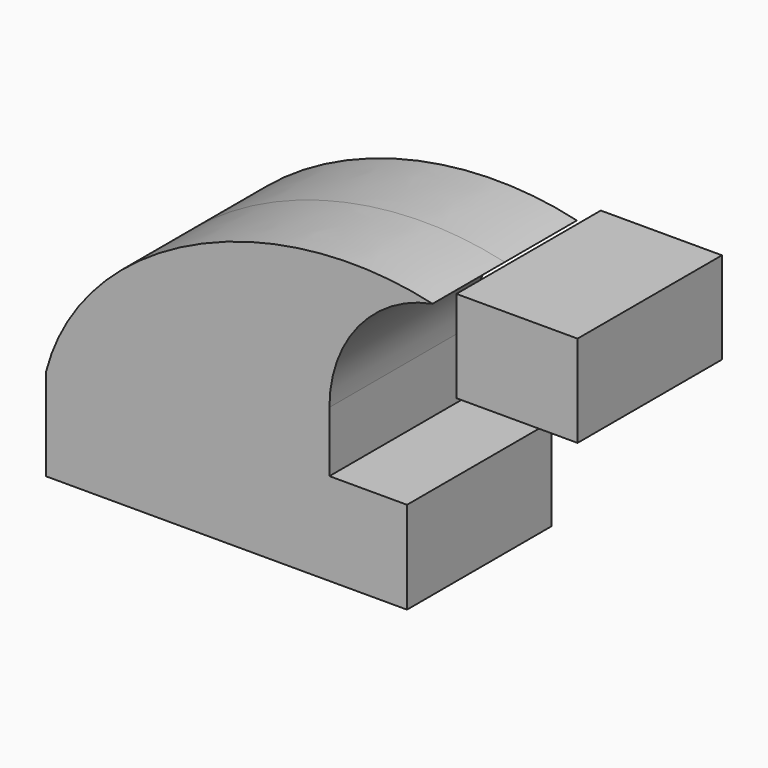
from build123d import *

# Parameters (mm, degrees)
F0_W     = 34.099281
F0_H     = 25.849454
F1_DEPTH = 25.4


with BuildPart() as f1:
    # F0 (on Front) → F1 (new body, symmetric)
    with BuildSketch(Plane.XZ):
        with Locations((81.751195, 56.857631)):
            Rectangle(F0_W, F0_H)
        Polygon((-50.8, -12.993479), (50.8, -12.993479), (50.8, 12.993479), (28.956, 12.993479), (-50.8, 12.993479), align=None)
        with BuildLine():
            add(Edge.make_bspline(
                [(-50.8, 12.993479), (-40.777285, 51.31074), (11.622289, 76.063916), (57.984713, 65.140161)],
                knots=[0, 0, 0, 0, 120.637433, 120.637433, 120.637433, 120.637433], degree=3))
            Line((-50.8, 12.993479), (28.956, 12.993479))
            Line((28.956, 12.993479), (28.956, 30.031349))
            ThreePointArc((28.956, 30.031349), (37.153035, 52.809051), (57.984713, 65.140161))
        make_face()
    extrude(amount=F1_DEPTH, both=True)


solid = f1.part
